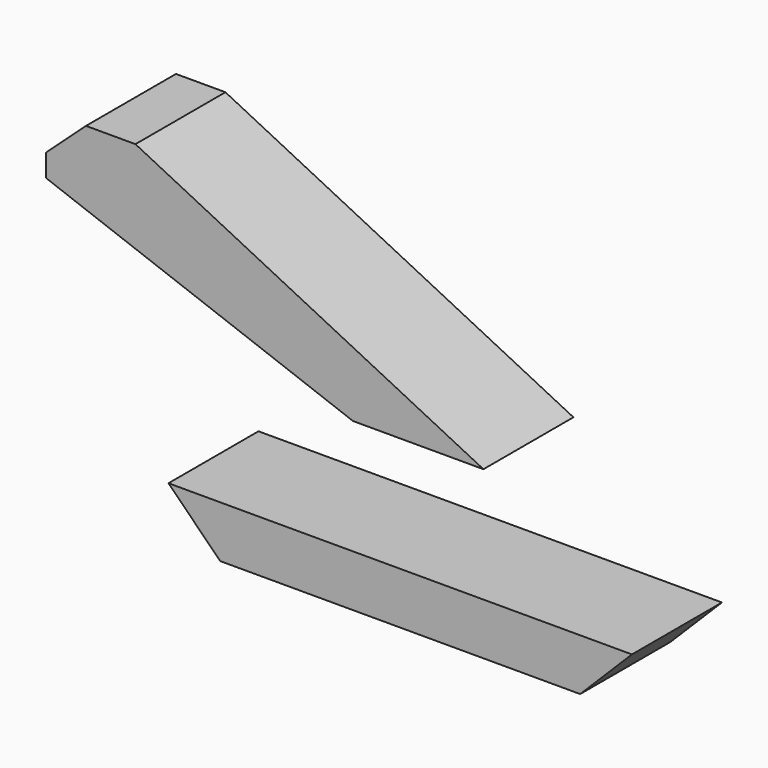
from build123d import *

# Parameters (mm, degrees)
F1_DEPTH = 250


with BuildPart() as f1:
    # F0 (on Front) → F1 (new body)
    with BuildSketch(Plane.XZ):
        Polygon((1030, 0), (0, 0), (115, -115), (915, -115), align=None)
        Polygon((-272.03194, 508.590833), (410, 255), (700, 255), (-73.417299, 639.507119), (-183.417299, 639.507119), (-272.03194, 558.590833), align=None)
    extrude(amount=F1_DEPTH)


solid = f1.part
